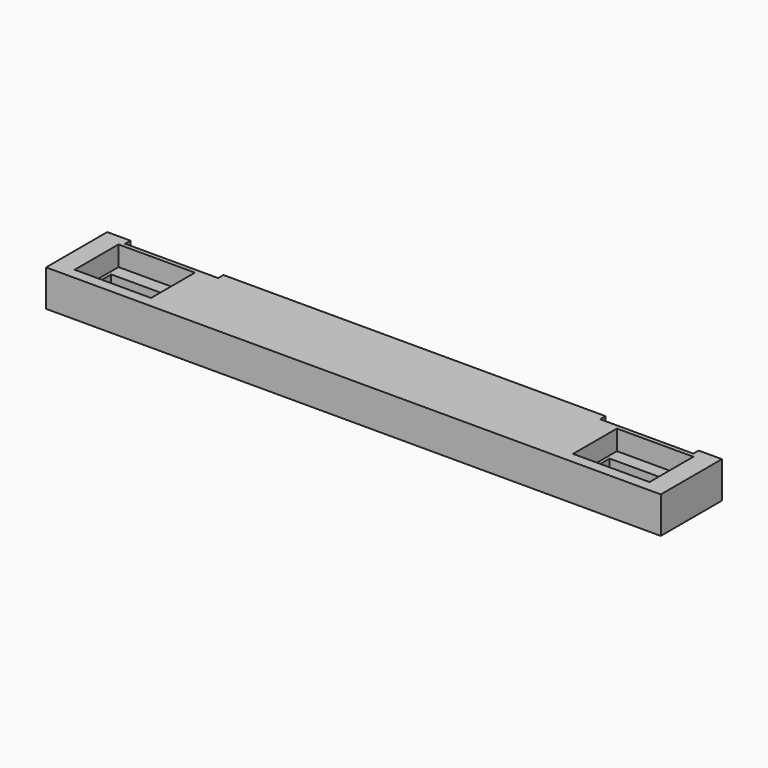
from build123d import *

# Parameters (mm, degrees)
F0_W     = 23
F0_H     = 16.5
F1_DEPTH = 11
F0_W_2   = 21
F0_H_2   = 8.5
F2_DEPTH = 5


with BuildPart() as f1:
    # F0 (on Top) → F1 (new body)
    with BuildSketch(Plane.XY):
        Polygon((-85.5, 11.5), (-92.5, 11.5), (-92.5, -11.5), (92.5, -11.5), (92.5, 11.5), (85.5, 11.5), (85.5, 9.5), (57.5, 9.5), (57.5, 11.5), (-57.5, 11.5), (-57.5, 9.5), (-85.5, 9.5), align=None)
        with Locations((-75, 0)):
            Rectangle(F0_W, F0_H, mode=Mode.SUBTRACT)
        with Locations((75, 0)):
            Rectangle(F0_W, F0_H, mode=Mode.SUBTRACT)
    extrude(amount=F1_DEPTH)

    # F0 (on Top) → F2 (join)
    with BuildSketch(Plane.XY):
        Polygon((-85.5, 11.5), (-92.5, 11.5), (-92.5, -11.5), (92.5, -11.5), (92.5, 11.5), (85.5, 11.5), (85.5, 9.5), (57.5, 9.5), (57.5, 11.5), (-57.5, 11.5), (-57.5, 9.5), (-85.5, 9.5), align=None)
        with Locations((-75, 0)):
            Rectangle(F0_W, F0_H, mode=Mode.SUBTRACT)
        with Locations((75, 0)):
            Rectangle(F0_W, F0_H, mode=Mode.SUBTRACT)
        with Locations((75, 0)):
            Rectangle(F0_W, F0_H)
        with Locations((75, 0)):
            Rectangle(F0_W_2, F0_H_2, mode=Mode.SUBTRACT)
        with Locations((-75, 0)):
            Rectangle(F0_W, F0_H)
        with Locations((-75, 0)):
            Rectangle(F0_W_2, F0_H_2, mode=Mode.SUBTRACT)
    extrude(amount=F2_DEPTH)


solid = f1.part
